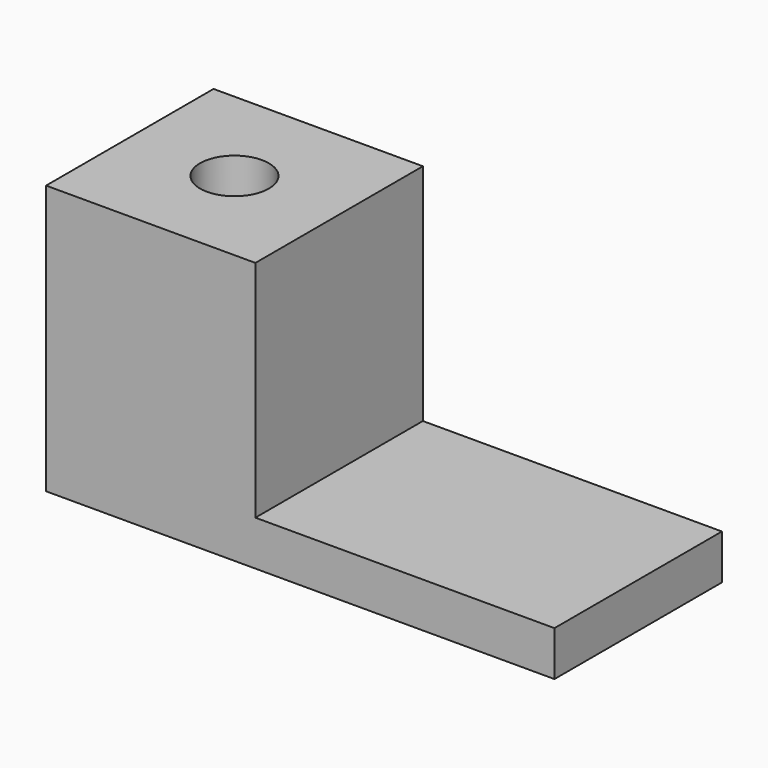
from build123d import *

# Parameters (mm, degrees)
F0_W     = 7
F0_H     = 7
F0_R     = 1.15
F1_DEPTH = 4.5
F2_W     = 7
F2_H     = 1.5
F3_DEPTH = 10


with BuildPart() as f1:
    # F0 (on Top) → F1 (new body, symmetric)
    with BuildSketch(Plane.XY):
        Rectangle(F0_W, F0_H)
        Circle(F0_R, mode=Mode.SUBTRACT)
    extrude(amount=F1_DEPTH, both=True)

    # F2 (on face) → F3 (join)
    with BuildSketch(Plane.YZ.offset(3.5)):
        with Locations((0, -3.75)):
            Rectangle(F2_W, F2_H)
    extrude(amount=F3_DEPTH)


solid = f1.part
